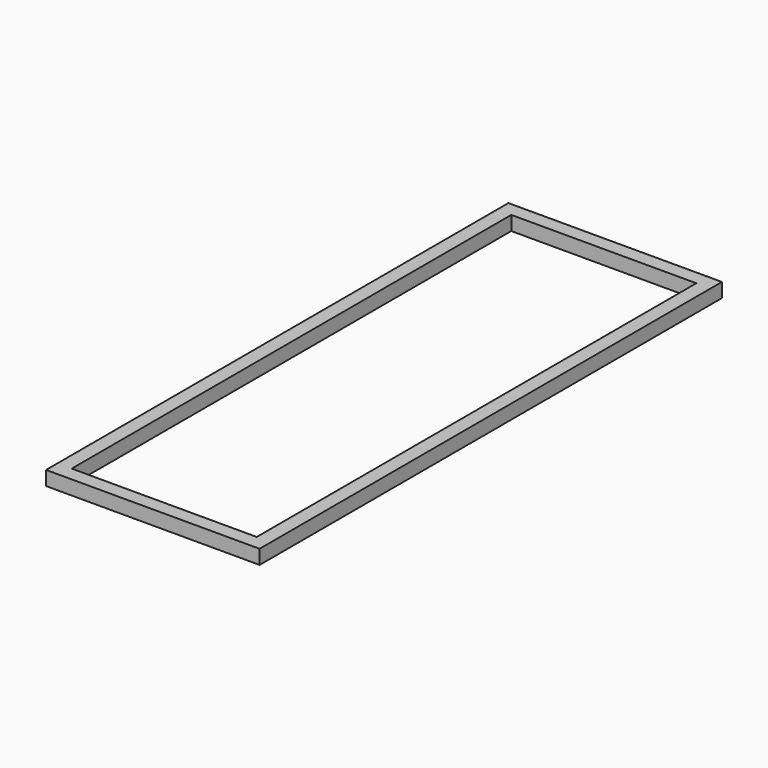
from build123d import *

# Parameters (mm, degrees)
F1_W = 12.5
F1_H = 12.5


with BuildPart() as f2:
    # F2: sweep along a path in F0
    with BuildLine(Plane.XY) as f2_path:
        Line((0, 0), (0, 495))
        Line((0, 495), (175, 495))
        Line((175, 495), (175, 0))
        Line((175, 0), (0, 0))
    # F1 (on Front) → F2 (sweep)
    with BuildSketch(Plane.XZ):
        Rectangle(F1_W, F1_H)
    sweep(path=f2_path.line, transition=Transition.RIGHT)


solid = f2.part
